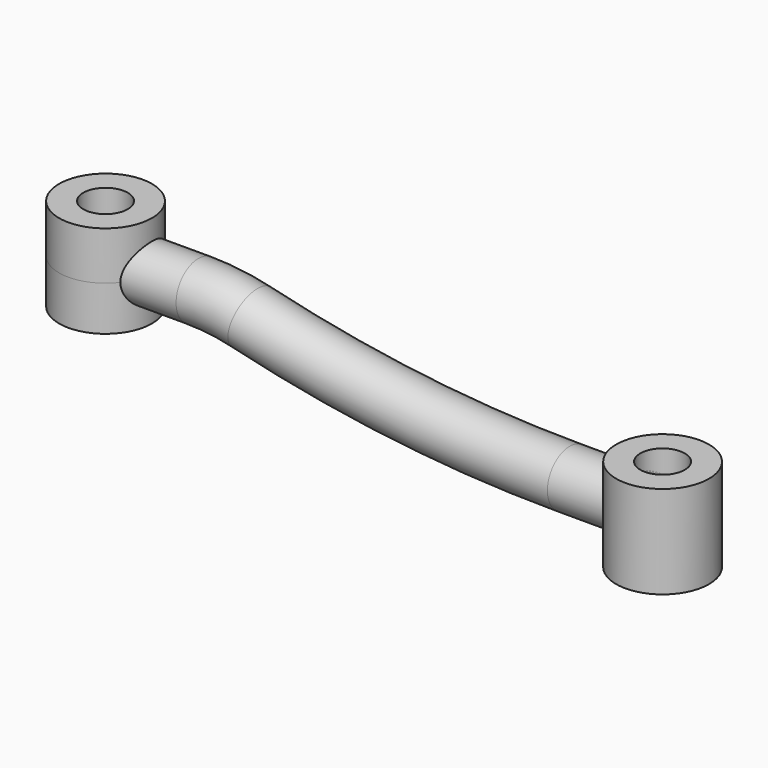
from build123d import *

# Parameters (mm, degrees)
F1_R          = 7.5
F3_R          = 12.5
F4_DEPTH      = 13
F4_DEPTH_BACK = 12
F5_R          = 6
F6_DEPTH      = 32.5010001
F7_R          = 12.5
F8_DEPTH      = 25
F9_R          = 6
F10_DEPTH     = 25.001


with BuildPart() as f2:
    # F2: sweep along a path in F0
    with BuildLine(Plane.XZ) as f2_path:
        Line((0, 0), (25, 0))
        ThreePointArc((25, 0), (32.1487132371, -0.4273896908), (39.1955835962, -1.7034700315))
        ThreePointArc((39.1955835962, -1.7034700315), (81.789999989, -9.4166667579), (125, -12))
        Line((125, -12), (150, -12))
    # F1 (on Right) → F2 (sweep)
    with BuildSketch(Plane.YZ):
        Circle(F1_R)
    sweep(path=f2_path.line)

    # F3 (on Top) → F4 (join, two sides)
    with BuildSketch(Plane.XY) as f4_sk:
        Circle(F3_R)
    extrude(amount=F4_DEPTH)
    extrude(f4_sk.sketch, amount=-F4_DEPTH_BACK)

    # F5 (on face) → F6 (cut, through all)
    with BuildSketch(Plane.XY.offset(13)):
        Circle(F5_R)
    extrude(amount=-F6_DEPTH, mode=Mode.SUBTRACT)


with BuildPart() as f8:
    # F7 (on Top) → F8 (new body)
    with BuildSketch(Plane.XY):
        with Locations((150.020673871, 0)):
            Circle(F7_R)
    extrude(amount=-F8_DEPTH)


with BuildPart() as f10_tool:
    # F9 (on face) → F10 (new body, through all)
    with BuildSketch(Plane.XY):
        with Locations((150.020673871, 0)):
            Circle(F9_R)
    extrude(amount=-F10_DEPTH)


with BuildPart() as f2_1:
    add(f2.part)

    # F10: cut by f10_tool
    add(f10_tool.part, mode=Mode.SUBTRACT)


with BuildPart() as f8_1:
    add(f8.part)

    # F10: cut by f10_tool
    add(f10_tool.part, mode=Mode.SUBTRACT)


solid = Compound([f2_1.part, f8_1.part])
